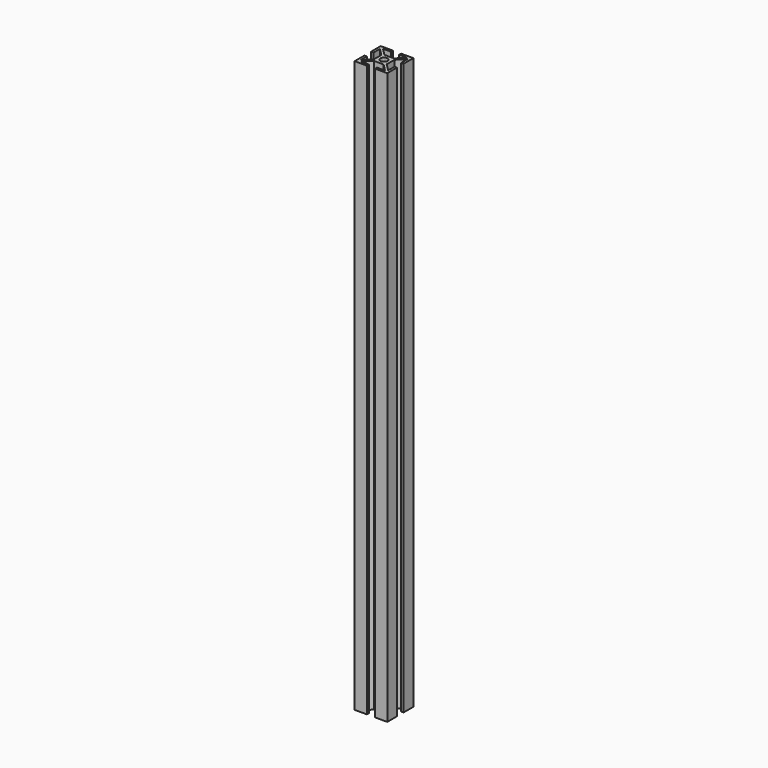
from build123d import *

# Parameters (mm, degrees)
F1_DEPTH = 340
F2_DEPTH = 303
F3_DEPTH = 350


with BuildPart() as f1:
    # F0 (on Top) → F1 (new body)
    with BuildSketch(Plane.XY):
        Polygon((-8.5, 8.5), (-7.4393398282, 8.5), (-2.5, 8.5), (-2.5, 10), (-10, 10), (-10, 2.5), (-8.5, 2.5), (-8.5, 7.4393398282), align=None)
        Polygon((-4, 4), (-2.9393398282, 4), (-7.4393398282, 8.5), (-8.5, 8.5), (-8.5, 7.4393398282), (-4, 2.9393398282), align=None)
        Polygon((-2.5, -1.4393398282), (-2.5, 1.4393398282), (-3.5606601718, 2.5), (-4, 2.5), (-4, -2.5), (-3.5606601718, -2.5), align=None)
        Polygon((-2.5, 2.5), (-2.5, 3.5606601718), (-2.9393398282, 4), (-4, 4), (-4, 2.9393398282), (-3.5606601718, 2.5), align=None)
        Polygon((-4, 2.5), (-3.5606601718, 2.5), (-4, 2.9393398282), align=None)
        Polygon((-4, -2.9393398282), (-3.5606601718, -2.5), (-4, -2.5), align=None)
        Polygon((-2.9393398282, -4), (-2.5, -3.5606601718), (-2.5, -2.5), (-3.5606601718, -2.5), (-4, -2.9393398282), (-4, -4), align=None)
        Polygon((-7.4393398282, -8.5), (-2.9393398282, -4), (-4, -4), (-4, -2.9393398282), (-8.5, -7.4393398282), (-8.5, -8.5), align=None)
        Polygon((-2.5, -2.5), (-2.5, -1.4393398282), (-3.5606601718, -2.5), align=None)
        Polygon((-3.5606601718, 2.5), (-2.5, 1.4393398282), (-2.5, 2.5), align=None)
        Polygon((-2.9393398282, 4), (-2.5, 3.5606601718), (-2.5, 4), align=None)
        Polygon((-1.4393398282, 2.5), (1.4393398282, 2.5), (2.5, 3.5606601718), (2.5, 4), (-2.5, 4), (-2.5, 3.5606601718), align=None)
        Polygon((-2.5, 2.5), (-1.4393398282, 2.5), (-2.5, 3.5606601718), align=None)
        Polygon((2.5, 3.5606601718), (1.4393398282, 2.5), (2.5, 2.5), align=None)
        Polygon((2.5, 2.5), (3.5606601718, 2.5), (4, 2.9393398282), (4, 4), (2.9393398282, 4), (2.5, 3.5606601718), align=None)
        Polygon((2.5, 4), (2.5, 3.5606601718), (2.9393398282, 4), align=None)
        Polygon((4, 2.9393398282), (3.5606601718, 2.5), (4, 2.5), align=None)
        Polygon((3.5606601718, 2.5), (2.5, 1.4393398282), (2.5, -1.4393398282), (3.5606601718, -2.5), (4, -2.5), (4, 2.5), align=None)
        Polygon((4, -2.9393398282), (3.5606601718, -2.5), (2.5, -2.5), (2.5, -3.5606601718), (2.9393398282, -4), (4, -4), align=None)
        Polygon((3.5606601718, -2.5), (2.5, -1.4393398282), (2.5, -2.5), align=None)
        Polygon((2.5, -2.5), (1.4393398282, -2.5), (2.5, -3.5606601718), align=None)
        Polygon((2.5, -3.5606601718), (1.4393398282, -2.5), (-1.4393398282, -2.5), (-2.5, -3.5606601718), (-2.5, -4), (2.5, -4), align=None)
        Polygon((-2.5, -4), (-2.5, -3.5606601718), (-2.9393398282, -4), align=None)
        Polygon((4, -2.5), (3.5606601718, -2.5), (4, -2.9393398282), align=None)
        Polygon((2.9393398282, -4), (2.5, -3.5606601718), (2.5, -4), align=None)
        Polygon((8.5, -7.4393398282), (4, -2.9393398282), (4, -4), (2.9393398282, -4), (7.4393398282, -8.5), (8.5, -8.5), align=None)
        Polygon((-2.5, -3.5606601718), (-1.4393398282, -2.5), (-2.5, -2.5), align=None)
        Polygon((2.5, 2.5), (2.5, 1.4393398282), (3.5606601718, 2.5), align=None)
        Polygon((4, 4), (4, 2.9393398282), (8.5, 7.4393398282), (8.5, 8.5), (7.4393398282, 8.5), (2.9393398282, 4), align=None)
        Polygon((8.5, 8.5), (8.5, 7.4393398282), (8.5, 2.5), (10, 2.5), (10, 10), (2.5, 10), (2.5, 8.5), (7.4393398282, 8.5), align=None)
        Polygon((8.5, -2.5), (8.5, -7.4393398282), (8.5, -8.5), (7.4393398282, -8.5), (2.5, -8.5), (2.5, -10), (10, -10), (10, -2.5), align=None)
        Polygon((-2.5, -8.5), (-7.4393398282, -8.5), (-8.5, -8.5), (-8.5, -7.4393398282), (-8.5, -2.5), (-10, -2.5), (-10, -10), (-2.5, -10), align=None)
        with BuildLine():
            ThreePointArc((-1.9551107708, 0.894450599), (-1.5202795796, 1.5202795796), (-0.894450599, 1.9551107708))
            Line((-0.894450599, 1.9551107708), (-1.4393398282, 2.5))
            Line((-1.4393398282, 2.5), (-2.5, 2.5))
            Line((-2.5, 2.5), (-2.5, 1.4393398282))
            Line((-2.5, 1.4393398282), (-1.9551107708, 0.894450599))
        make_face()
        with BuildLine():
            ThreePointArc((-0.894450599, 1.9551107708), (0, 2.15), (0.894450599, 1.9551107708))
            Line((0.894450599, 1.9551107708), (1.4393398282, 2.5))
            Line((1.4393398282, 2.5), (-1.4393398282, 2.5))
            Line((-1.4393398282, 2.5), (-0.894450599, 1.9551107708))
        make_face()
        with BuildLine():
            ThreePointArc((0.894450599, 1.9551107708), (1.5202795796, 1.5202795796), (1.9551107708, 0.894450599))
            Line((1.9551107708, 0.894450599), (2.5, 1.4393398282))
            Line((2.5, 1.4393398282), (2.5, 2.5))
            Line((2.5, 2.5), (1.4393398282, 2.5))
            Line((1.4393398282, 2.5), (0.894450599, 1.9551107708))
        make_face()
        with BuildLine():
            ThreePointArc((1.9551107708, 0.894450599), (2.1007127549, 0.4577181681), (2.15, 0))
            ThreePointArc((2.15, 0), (2.1007127549, -0.4577181681), (1.9551107708, -0.894450599))
            Line((1.9551107708, -0.894450599), (2.5, -1.4393398282))
            Line((2.5, -1.4393398282), (2.5, 1.4393398282))
            Line((2.5, 1.4393398282), (1.9551107708, 0.894450599))
        make_face()
        with BuildLine():
            Line((2.5, -1.4393398282), (1.9551107708, -0.894450599))
            ThreePointArc((1.9551107708, -0.894450599), (1.5202795796, -1.5202795796), (0.894450599, -1.9551107708))
            Line((0.894450599, -1.9551107708), (1.4393398282, -2.5))
            Line((1.4393398282, -2.5), (2.5, -2.5))
            Line((2.5, -2.5), (2.5, -1.4393398282))
        make_face()
        with BuildLine():
            Line((1.4393398282, -2.5), (0.894450599, -1.9551107708))
            ThreePointArc((0.894450599, -1.9551107708), (0, -2.15), (-0.894450599, -1.9551107708))
            Line((-0.894450599, -1.9551107708), (-1.4393398282, -2.5))
            Line((-1.4393398282, -2.5), (1.4393398282, -2.5))
        make_face()
        with BuildLine():
            Line((-1.4393398282, -2.5), (-0.894450599, -1.9551107708))
            ThreePointArc((-0.894450599, -1.9551107708), (-1.5202795796, -1.5202795796), (-1.9551107708, -0.894450599))
            Line((-1.9551107708, -0.894450599), (-2.5, -1.4393398282))
            Line((-2.5, -1.4393398282), (-2.5, -2.5))
            Line((-2.5, -2.5), (-1.4393398282, -2.5))
        make_face()
        with BuildLine():
            ThreePointArc((-1.9551107708, -0.894450599), (-2.15, 0), (-1.9551107708, 0.894450599))
            Line((-1.9551107708, 0.894450599), (-2.5, 1.4393398282))
            Line((-2.5, 1.4393398282), (-2.5, -1.4393398282))
            Line((-2.5, -1.4393398282), (-1.9551107708, -0.894450599))
        make_face()
    extrude(amount=F1_DEPTH)


with BuildPart() as f2:
    # F0 (on Top) → F2 (new body)
    with BuildSketch(Plane.XY):
        Polygon((2.5, -2.5), (1.4393398282, -2.5), (2.5, -3.5606601718), align=None)
        with BuildLine():
            Line((-1.4393398282, -2.5), (-0.894450599, -1.9551107708))
            ThreePointArc((-0.894450599, -1.9551107708), (-1.5202795796, -1.5202795796), (-1.9551107708, -0.894450599))
            Line((-1.9551107708, -0.894450599), (-2.5, -1.4393398282))
            Line((-2.5, -1.4393398282), (-2.5, -2.5))
            Line((-2.5, -2.5), (-1.4393398282, -2.5))
        make_face()
        Polygon((-2.5, -3.5606601718), (-1.4393398282, -2.5), (-2.5, -2.5), align=None)
        Polygon((2.5, 2.5), (2.5, 1.4393398282), (3.5606601718, 2.5), align=None)
        Polygon((-2.5, -1.4393398282), (-2.5, 1.4393398282), (-3.5606601718, 2.5), (-4, 2.5), (-4, -2.5), (-3.5606601718, -2.5), align=None)
        Polygon((3.5606601718, 2.5), (2.5, 1.4393398282), (2.5, -1.4393398282), (3.5606601718, -2.5), (4, -2.5), (4, 2.5), align=None)
        Polygon((-2.5, 2.5), (-2.5, 3.5606601718), (-2.9393398282, 4), (-4, 4), (-4, 2.9393398282), (-3.5606601718, 2.5), align=None)
        Polygon((-3.5606601718, 2.5), (-2.5, 1.4393398282), (-2.5, 2.5), align=None)
        Polygon((-7.4393398282, -8.5), (-2.9393398282, -4), (-4, -4), (-4, -2.9393398282), (-8.5, -7.4393398282), (-8.5, -8.5), align=None)
        Polygon((-1.4393398282, 2.5), (1.4393398282, 2.5), (2.5, 3.5606601718), (2.5, 4), (-2.5, 4), (-2.5, 3.5606601718), align=None)
        Polygon((-8.5, 8.5), (-7.4393398282, 8.5), (-2.5, 8.5), (-2.5, 10), (-10, 10), (-10, 2.5), (-8.5, 2.5), (-8.5, 7.4393398282), align=None)
        Polygon((-2.9393398282, -4), (-2.5, -3.5606601718), (-2.5, -2.5), (-3.5606601718, -2.5), (-4, -2.9393398282), (-4, -4), align=None)
        Polygon((4, 4), (4, 2.9393398282), (8.5, 7.4393398282), (8.5, 8.5), (7.4393398282, 8.5), (2.9393398282, 4), align=None)
        Polygon((8.5, -7.4393398282), (4, -2.9393398282), (4, -4), (2.9393398282, -4), (7.4393398282, -8.5), (8.5, -8.5), align=None)
        Polygon((8.5, 8.5), (8.5, 7.4393398282), (8.5, 2.5), (10, 2.5), (10, 10), (2.5, 10), (2.5, 8.5), (7.4393398282, 8.5), align=None)
        with BuildLine():
            ThreePointArc((0.894450599, 1.9551107708), (1.5202795796, 1.5202795796), (1.9551107708, 0.894450599))
            Line((1.9551107708, 0.894450599), (2.5, 1.4393398282))
            Line((2.5, 1.4393398282), (2.5, 2.5))
            Line((2.5, 2.5), (1.4393398282, 2.5))
            Line((1.4393398282, 2.5), (0.894450599, 1.9551107708))
        make_face()
        Polygon((2.5, 3.5606601718), (1.4393398282, 2.5), (2.5, 2.5), align=None)
        Polygon((-2.5, -2.5), (-2.5, -1.4393398282), (-3.5606601718, -2.5), align=None)
        Polygon((2.5, -3.5606601718), (1.4393398282, -2.5), (-1.4393398282, -2.5), (-2.5, -3.5606601718), (-2.5, -4), (2.5, -4), align=None)
        with BuildLine():
            ThreePointArc((-1.9551107708, -0.894450599), (-2.15, 0), (-1.9551107708, 0.894450599))
            Line((-1.9551107708, 0.894450599), (-2.5, 1.4393398282))
            Line((-2.5, 1.4393398282), (-2.5, -1.4393398282))
            Line((-2.5, -1.4393398282), (-1.9551107708, -0.894450599))
        make_face()
        Polygon((-2.5, 2.5), (-1.4393398282, 2.5), (-2.5, 3.5606601718), align=None)
        with BuildLine():
            Line((1.4393398282, -2.5), (0.894450599, -1.9551107708))
            ThreePointArc((0.894450599, -1.9551107708), (0, -2.15), (-0.894450599, -1.9551107708))
            Line((-0.894450599, -1.9551107708), (-1.4393398282, -2.5))
            Line((-1.4393398282, -2.5), (1.4393398282, -2.5))
        make_face()
        with BuildLine():
            Line((2.5, -1.4393398282), (1.9551107708, -0.894450599))
            ThreePointArc((1.9551107708, -0.894450599), (1.5202795796, -1.5202795796), (0.894450599, -1.9551107708))
            Line((0.894450599, -1.9551107708), (1.4393398282, -2.5))
            Line((1.4393398282, -2.5), (2.5, -2.5))
            Line((2.5, -2.5), (2.5, -1.4393398282))
        make_face()
        with BuildLine():
            ThreePointArc((-1.9551107708, 0.894450599), (-1.5202795796, 1.5202795796), (-0.894450599, 1.9551107708))
            Line((-0.894450599, 1.9551107708), (-1.4393398282, 2.5))
            Line((-1.4393398282, 2.5), (-2.5, 2.5))
            Line((-2.5, 2.5), (-2.5, 1.4393398282))
            Line((-2.5, 1.4393398282), (-1.9551107708, 0.894450599))
        make_face()
        Polygon((2.5, 2.5), (3.5606601718, 2.5), (4, 2.9393398282), (4, 4), (2.9393398282, 4), (2.5, 3.5606601718), align=None)
        with BuildLine():
            ThreePointArc((1.9551107708, 0.894450599), (2.1007127549, 0.4577181681), (2.15, 0))
            ThreePointArc((2.15, 0), (2.1007127549, -0.4577181681), (1.9551107708, -0.894450599))
            Line((1.9551107708, -0.894450599), (2.5, -1.4393398282))
            Line((2.5, -1.4393398282), (2.5, 1.4393398282))
            Line((2.5, 1.4393398282), (1.9551107708, 0.894450599))
        make_face()
        Polygon((-4, 4), (-2.9393398282, 4), (-7.4393398282, 8.5), (-8.5, 8.5), (-8.5, 7.4393398282), (-4, 2.9393398282), align=None)
        Polygon((4, -2.9393398282), (3.5606601718, -2.5), (2.5, -2.5), (2.5, -3.5606601718), (2.9393398282, -4), (4, -4), align=None)
        Polygon((3.5606601718, -2.5), (2.5, -1.4393398282), (2.5, -2.5), align=None)
        Polygon((-2.9393398282, 4), (-2.5, 3.5606601718), (-2.5, 4), align=None)
        Polygon((-4, 2.5), (-3.5606601718, 2.5), (-4, 2.9393398282), align=None)
        Polygon((2.9393398282, -4), (2.5, -3.5606601718), (2.5, -4), align=None)
        Polygon((4, -2.5), (3.5606601718, -2.5), (4, -2.9393398282), align=None)
        Polygon((-4, -2.9393398282), (-3.5606601718, -2.5), (-4, -2.5), align=None)
        Polygon((4, 2.9393398282), (3.5606601718, 2.5), (4, 2.5), align=None)
        Polygon((-2.5, -4), (-2.5, -3.5606601718), (-2.9393398282, -4), align=None)
        Polygon((2.5, 4), (2.5, 3.5606601718), (2.9393398282, 4), align=None)
        with BuildLine():
            ThreePointArc((-0.894450599, 1.9551107708), (0, 2.15), (0.894450599, 1.9551107708))
            Line((0.894450599, 1.9551107708), (1.4393398282, 2.5))
            Line((1.4393398282, 2.5), (-1.4393398282, 2.5))
            Line((-1.4393398282, 2.5), (-0.894450599, 1.9551107708))
        make_face()
        Polygon((-2.5, -8.5), (-7.4393398282, -8.5), (-8.5, -8.5), (-8.5, -7.4393398282), (-8.5, -2.5), (-10, -2.5), (-10, -10), (-2.5, -10), align=None)
        Polygon((8.5, -2.5), (8.5, -7.4393398282), (8.5, -8.5), (7.4393398282, -8.5), (2.5, -8.5), (2.5, -10), (10, -10), (10, -2.5), align=None)
    extrude(amount=F2_DEPTH)


with BuildPart() as f3:
    # F0 (on Top) → F3 (new body)
    with BuildSketch(Plane.XY):
        Polygon((2.5, -2.5), (1.4393398282, -2.5), (2.5, -3.5606601718), align=None)
        with BuildLine():
            Line((-1.4393398282, -2.5), (-0.894450599, -1.9551107708))
            ThreePointArc((-0.894450599, -1.9551107708), (-1.5202795796, -1.5202795796), (-1.9551107708, -0.894450599))
            Line((-1.9551107708, -0.894450599), (-2.5, -1.4393398282))
            Line((-2.5, -1.4393398282), (-2.5, -2.5))
            Line((-2.5, -2.5), (-1.4393398282, -2.5))
        make_face()
        Polygon((2.9393398282, -4), (2.5, -3.5606601718), (2.5, -4), align=None)
        Polygon((-2.5, -3.5606601718), (-1.4393398282, -2.5), (-2.5, -2.5), align=None)
        Polygon((8.5, -2.5), (8.5, -7.4393398282), (8.5, -8.5), (7.4393398282, -8.5), (2.5, -8.5), (2.5, -10), (10, -10), (10, -2.5), align=None)
        Polygon((2.5, 2.5), (2.5, 1.4393398282), (3.5606601718, 2.5), align=None)
        Polygon((4, -2.5), (3.5606601718, -2.5), (4, -2.9393398282), align=None)
        Polygon((-2.5, -1.4393398282), (-2.5, 1.4393398282), (-3.5606601718, 2.5), (-4, 2.5), (-4, -2.5), (-3.5606601718, -2.5), align=None)
        Polygon((3.5606601718, 2.5), (2.5, 1.4393398282), (2.5, -1.4393398282), (3.5606601718, -2.5), (4, -2.5), (4, 2.5), align=None)
        Polygon((-2.5, 2.5), (-2.5, 3.5606601718), (-2.9393398282, 4), (-4, 4), (-4, 2.9393398282), (-3.5606601718, 2.5), align=None)
        Polygon((-3.5606601718, 2.5), (-2.5, 1.4393398282), (-2.5, 2.5), align=None)
        Polygon((-2.5, -4), (-2.5, -3.5606601718), (-2.9393398282, -4), align=None)
        Polygon((-7.4393398282, -8.5), (-2.9393398282, -4), (-4, -4), (-4, -2.9393398282), (-8.5, -7.4393398282), (-8.5, -8.5), align=None)
        Polygon((-1.4393398282, 2.5), (1.4393398282, 2.5), (2.5, 3.5606601718), (2.5, 4), (-2.5, 4), (-2.5, 3.5606601718), align=None)
        Polygon((-8.5, 8.5), (-7.4393398282, 8.5), (-2.5, 8.5), (-2.5, 10), (-10, 10), (-10, 2.5), (-8.5, 2.5), (-8.5, 7.4393398282), align=None)
        Polygon((-2.9393398282, -4), (-2.5, -3.5606601718), (-2.5, -2.5), (-3.5606601718, -2.5), (-4, -2.9393398282), (-4, -4), align=None)
        with BuildLine():
            ThreePointArc((-0.894450599, 1.9551107708), (0, 2.15), (0.894450599, 1.9551107708))
            Line((0.894450599, 1.9551107708), (1.4393398282, 2.5))
            Line((1.4393398282, 2.5), (-1.4393398282, 2.5))
            Line((-1.4393398282, 2.5), (-0.894450599, 1.9551107708))
        make_face()
        Polygon((4, 4), (4, 2.9393398282), (8.5, 7.4393398282), (8.5, 8.5), (7.4393398282, 8.5), (2.9393398282, 4), align=None)
        Polygon((8.5, -7.4393398282), (4, -2.9393398282), (4, -4), (2.9393398282, -4), (7.4393398282, -8.5), (8.5, -8.5), align=None)
        Polygon((8.5, 8.5), (8.5, 7.4393398282), (8.5, 2.5), (10, 2.5), (10, 10), (2.5, 10), (2.5, 8.5), (7.4393398282, 8.5), align=None)
        with BuildLine():
            ThreePointArc((0.894450599, 1.9551107708), (1.5202795796, 1.5202795796), (1.9551107708, 0.894450599))
            Line((1.9551107708, 0.894450599), (2.5, 1.4393398282))
            Line((2.5, 1.4393398282), (2.5, 2.5))
            Line((2.5, 2.5), (1.4393398282, 2.5))
            Line((1.4393398282, 2.5), (0.894450599, 1.9551107708))
        make_face()
        Polygon((2.5, 3.5606601718), (1.4393398282, 2.5), (2.5, 2.5), align=None)
        Polygon((-2.5, -2.5), (-2.5, -1.4393398282), (-3.5606601718, -2.5), align=None)
        Polygon((2.5, -3.5606601718), (1.4393398282, -2.5), (-1.4393398282, -2.5), (-2.5, -3.5606601718), (-2.5, -4), (2.5, -4), align=None)
        with BuildLine():
            ThreePointArc((-1.9551107708, -0.894450599), (-2.15, 0), (-1.9551107708, 0.894450599))
            Line((-1.9551107708, 0.894450599), (-2.5, 1.4393398282))
            Line((-2.5, 1.4393398282), (-2.5, -1.4393398282))
            Line((-2.5, -1.4393398282), (-1.9551107708, -0.894450599))
        make_face()
        Polygon((-2.5, -8.5), (-7.4393398282, -8.5), (-8.5, -8.5), (-8.5, -7.4393398282), (-8.5, -2.5), (-10, -2.5), (-10, -10), (-2.5, -10), align=None)
        Polygon((-2.5, 2.5), (-1.4393398282, 2.5), (-2.5, 3.5606601718), align=None)
        with BuildLine():
            Line((1.4393398282, -2.5), (0.894450599, -1.9551107708))
            ThreePointArc((0.894450599, -1.9551107708), (0, -2.15), (-0.894450599, -1.9551107708))
            Line((-0.894450599, -1.9551107708), (-1.4393398282, -2.5))
            Line((-1.4393398282, -2.5), (1.4393398282, -2.5))
        make_face()
        with BuildLine():
            Line((2.5, -1.4393398282), (1.9551107708, -0.894450599))
            ThreePointArc((1.9551107708, -0.894450599), (1.5202795796, -1.5202795796), (0.894450599, -1.9551107708))
            Line((0.894450599, -1.9551107708), (1.4393398282, -2.5))
            Line((1.4393398282, -2.5), (2.5, -2.5))
            Line((2.5, -2.5), (2.5, -1.4393398282))
        make_face()
        with BuildLine():
            ThreePointArc((-1.9551107708, 0.894450599), (-1.5202795796, 1.5202795796), (-0.894450599, 1.9551107708))
            Line((-0.894450599, 1.9551107708), (-1.4393398282, 2.5))
            Line((-1.4393398282, 2.5), (-2.5, 2.5))
            Line((-2.5, 2.5), (-2.5, 1.4393398282))
            Line((-2.5, 1.4393398282), (-1.9551107708, 0.894450599))
        make_face()
        Polygon((2.5, 2.5), (3.5606601718, 2.5), (4, 2.9393398282), (4, 4), (2.9393398282, 4), (2.5, 3.5606601718), align=None)
        with BuildLine():
            ThreePointArc((1.9551107708, 0.894450599), (2.1007127549, 0.4577181681), (2.15, 0))
            ThreePointArc((2.15, 0), (2.1007127549, -0.4577181681), (1.9551107708, -0.894450599))
            Line((1.9551107708, -0.894450599), (2.5, -1.4393398282))
            Line((2.5, -1.4393398282), (2.5, 1.4393398282))
            Line((2.5, 1.4393398282), (1.9551107708, 0.894450599))
        make_face()
        Polygon((-4, 4), (-2.9393398282, 4), (-7.4393398282, 8.5), (-8.5, 8.5), (-8.5, 7.4393398282), (-4, 2.9393398282), align=None)
        Polygon((4, -2.9393398282), (3.5606601718, -2.5), (2.5, -2.5), (2.5, -3.5606601718), (2.9393398282, -4), (4, -4), align=None)
        Polygon((3.5606601718, -2.5), (2.5, -1.4393398282), (2.5, -2.5), align=None)
        Polygon((-2.9393398282, 4), (-2.5, 3.5606601718), (-2.5, 4), align=None)
        Polygon((-4, 2.5), (-3.5606601718, 2.5), (-4, 2.9393398282), align=None)
        Polygon((-4, -2.9393398282), (-3.5606601718, -2.5), (-4, -2.5), align=None)
        Polygon((4, 2.9393398282), (3.5606601718, 2.5), (4, 2.5), align=None)
        Polygon((2.5, 4), (2.5, 3.5606601718), (2.9393398282, 4), align=None)
    extrude(amount=F3_DEPTH)


solid = Compound([f1.part, f2.part, f3.part])
